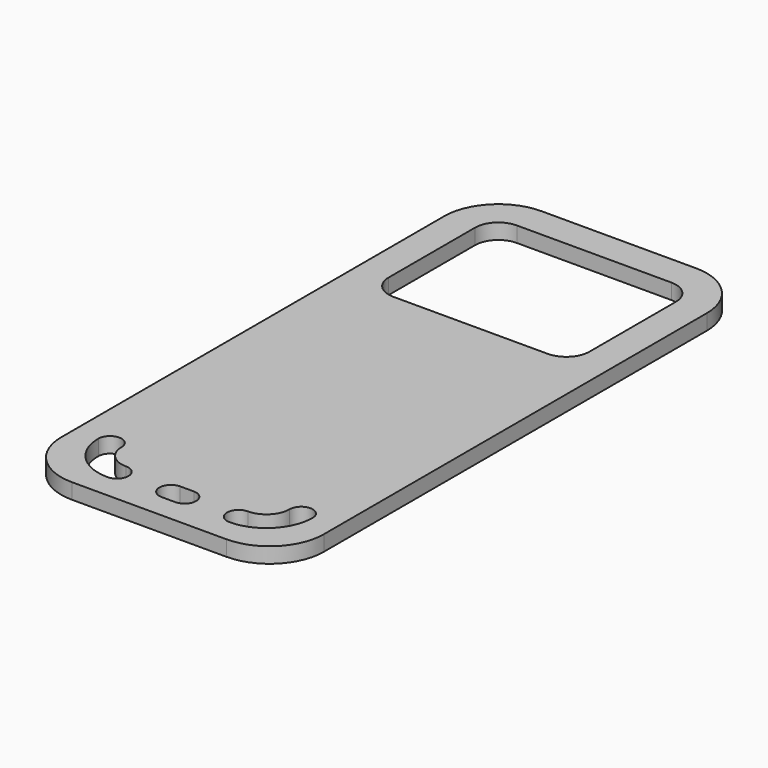
from build123d import *

# Parameters (mm, degrees)
F0_W     = 34
F0_H     = 76
F0_W_2   = 26
F0_H_2   = 20
F1_DEPTH = 2
F2_R     = 3
F3_R     = 7
F5_DEPTH = 25


with BuildPart() as f1:
    # F0 (on Top) → F1 (new body)
    with BuildSketch(Plane.XY):
        with Locations((17, 38)):
            Rectangle(F0_W, F0_H)
        with Locations((17, 62)):
            Rectangle(F0_W_2, F0_H_2, mode=Mode.SUBTRACT)
    extrude(amount=F1_DEPTH)

    # F2
    f2_edges = [f1.edges().sort_by_distance(p)[0] for p in [
        (4, 72, 1),
        (30, 72, 1),
        (30, 52, 1),
        (4, 52, 1),
    ]]
    fillet(f2_edges, radius=F2_R)

    # F3
    f3_edges = [f1.edges().sort_by_distance(p)[0] for p in [
        (34, 76, 1),
        (0, 76, 1),
        (0, 0, 1),
        (34, 0, 1),
    ]]
    fillet(f3_edges, radius=F3_R)

    # F4 (on face) → F5 (cut)
    with BuildSketch(Plane.XY.offset(2)):
        with BuildLine():
            ThreePointArc((6.12132, 9.12132), (4.62132, 10.62132), (3.12132, 9.12132))
            ThreePointArc((3.12132, 9.12132), (4.87868, 4.87868), (9.12132, 3.12132))
            ThreePointArc((9.12132, 3.12132), (10.62132, 4.62132), (9.12132, 6.12132))
            ThreePointArc((9.12132, 6.12132), (7, 7), (6.12132, 9.12132))
        make_face()
        with BuildLine():
            Line((17.87868, 6.12132), (16.12132, 6.12132))
            ThreePointArc((16.12132, 6.12132), (14.62132, 4.62132), (16.12132, 3.12132))
            Line((16.12132, 3.12132), (17.87868, 3.12132))
            ThreePointArc((17.87868, 3.12132), (19.37868, 4.62132), (17.87868, 6.12132))
        make_face()
        with BuildLine():
            ThreePointArc((27.87868, 9.12132), (27, 7), (24.87868, 6.12132))
            ThreePointArc((24.87868, 6.12132), (23.37868, 4.62132), (24.87868, 3.12132))
            ThreePointArc((24.87868, 3.12132), (29.12132, 4.87868), (30.87868, 9.12132))
            ThreePointArc((30.87868, 9.12132), (29.37868, 10.62132), (27.87868, 9.12132))
        make_face()
    extrude(amount=-F5_DEPTH, mode=Mode.SUBTRACT)


solid = f1.part
